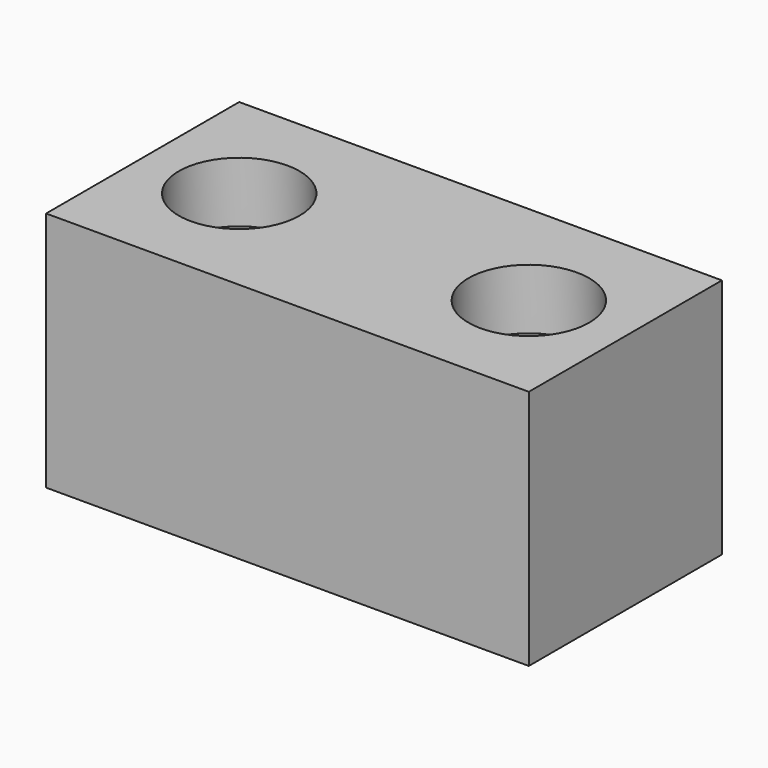
from build123d import *

# Parameters (mm, degrees)
F0_W           = 50.8
F0_H           = 25.4
F1_DEPTH       = 12.7
F3_D           = 6.35
F3_CBORE_D     = 12.7
F3_CBORE_DEPTH = 6.35


with BuildPart() as f1:
    # F0 (on Top) → F1 (new body, symmetric)
    with BuildSketch(Plane.XY):
        Rectangle(F0_W, F0_H)
    extrude(amount=F1_DEPTH, both=True)

    # F3 (through all)
    with Locations(Plane.XY.offset(12.7)):
        with Locations((-15.24, 0), (15.24, 0)):
            CounterBoreHole(F3_D / 2, F3_CBORE_D / 2, F3_CBORE_DEPTH)


solid = f1.part
